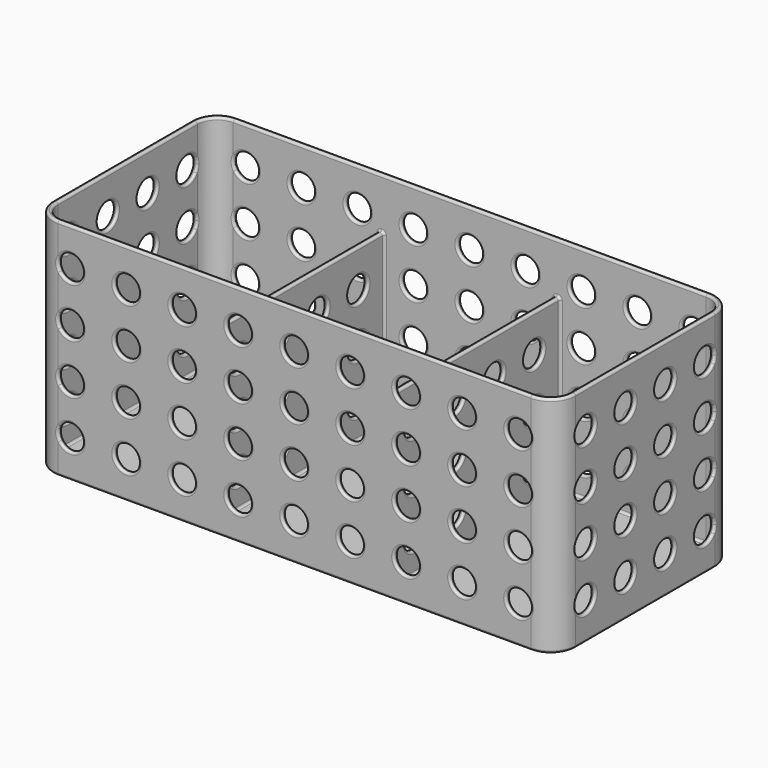
from build123d import *

# Parameters (mm, degrees)
PAD_DEPTH              = 90
THICKNESS_T            = -2
SKETCH001_W            = 2
SKETCH001_H            = 90
PAD001_DEPTH           = 70
SKETCH002_R            = 5
POCKET_DEPTH           = 45.001
POCKET_DEPTH_BACK      = 45.001
LINEARPATTERN_COUNT    = 9
LINEARPATTERN_PITCH    = 22.5
SKETCH003_R            = 5
POCKET001_DEPTH        = 105.001
POCKET001_DEPTH_BACK   = 105.001
LINEARPATTERN001_COUNT = 4
LINEARPATTERN001_PITCH = 20
FILLET_R               = 0.9


with BuildPart() as part:
    # Sketch → Pad (new body)
    with BuildSketch(Plane.XY):
        with BuildLine():
            ThreePointArc((-95, 45), (-102.071068, 42.071068), (-105, 35))
            Line((-105, -35), (-105, 35))
            ThreePointArc((-105, -35), (-102.071068, -42.071068), (-95, -45))
            Line((95, -45), (-95, -45))
            ThreePointArc((95, -45), (102.071068, -42.071068), (105, -35))
            Line((105, 35), (105, -35))
            ThreePointArc((105, 35), (102.071068, 42.071068), (95, 45))
            Line((-95, 45), (95, 45))
        make_face()
    extrude(amount=PAD_DEPTH)

    # Thickness
    thickness_openings = [part.faces().sort_by_distance(p)[0] for p in [
        (0, 0, 90),
    ]]
    offset(amount=THICKNESS_T, openings=thickness_openings)

    # Sketch001 → Pad001 (join)
    with BuildSketch(Plane.XY):
        with Locations((-35.333333, 0)):
            Rectangle(SKETCH001_W, SKETCH001_H)
        with Locations((35.333333, 0)):
            Rectangle(SKETCH001_W, SKETCH001_H)
    extrude(amount=PAD001_DEPTH)

    # Sketch002 → Pocket (cut, two sides)
    with BuildSketch(Plane.XZ) as pocket_sk:
        with Locations((-90, 75)):
            Circle(SKETCH002_R)
        with Locations((-90, 55)):
            Circle(SKETCH002_R)
        with Locations((-90, 35)):
            Circle(SKETCH002_R)
        with Locations((-90, 15)):
            Circle(SKETCH002_R)
    pocket = extrude(amount=-POCKET_DEPTH, mode=Mode.SUBTRACT) + extrude(pocket_sk.sketch, amount=POCKET_DEPTH_BACK, mode=Mode.SUBTRACT)

    # LinearPattern: Pocket ×9
    with Locations(*[(i * LINEARPATTERN_PITCH, 0, 0) for i in range(1, LINEARPATTERN_COUNT)]):
        add(pocket, mode=Mode.SUBTRACT)

    # Sketch003 → Pocket001 (cut, two sides)
    with BuildSketch(Plane.YZ) as pocket001_sk:
        with Locations((-30, 15)):
            Circle(SKETCH003_R)
        with Locations((-30, 35)):
            Circle(SKETCH003_R)
        with Locations((-30, 55)):
            Circle(SKETCH003_R)
        with Locations((-30, 75)):
            Circle(SKETCH003_R)
    pocket001 = extrude(amount=-POCKET001_DEPTH, mode=Mode.SUBTRACT) + extrude(pocket001_sk.sketch, amount=POCKET001_DEPTH_BACK, mode=Mode.SUBTRACT)

    # LinearPattern001: Pocket001 ×4
    with Locations(*[(0, i * LINEARPATTERN001_PITCH, 0) for i in range(1, LINEARPATTERN001_COUNT)]):
        add(pocket001, mode=Mode.SUBTRACT)

    # Fillet
    fillet_edges = [part.edges().sort_by_distance(p)[0] for p in [
        (0, -45, 0),
        (-95, -45, 7.5),
        (-95, -45, 25),
        (-95, -45, 45),
        (-95, -45, 65),
        (-95, -45, 82.5),
        (0, -45, 90),
        (95, -45, 82.5),
        (95, -45, 65),
        (95, -45, 45),
        (95, -45, 25),
        (95, -45, 7.5),
        (85, -45, 75),
        (62.5, -45, 75),
        (40, -45, 75),
        (17.5, -45, 75),
        (85, -45, 55),
        (62.5, -45, 55),
        (40, -45, 55),
        (17.5, -45, 55),
        (-5, -45, 75),
        (-27.5, -45, 75),
        (-50, -45, 75),
        (-72.5, -45, 75),
        (-90, -45, 70),
        (-90, -45, 80),
        (-5, -45, 55),
        (-27.5, -45, 55),
        (-50, -45, 55),
        (-72.5, -45, 55),
        (-90, -45, 50),
        (-90, -45, 60),
        (85, -45, 35),
        (62.5, -45, 35),
        (40, -45, 35),
        (17.5, -45, 35),
        (85, -45, 15),
        (62.5, -45, 15),
        (40, -45, 15),
        (17.5, -45, 15),
        (-5, -45, 35),
        (-27.5, -45, 35),
        (-50, -45, 35),
        (-72.5, -45, 35),
        (-90, -45, 30),
        (-90, -45, 40),
        (-5, -45, 15),
        (-27.5, -45, 15),
        (-50, -45, 15),
        (-72.5, -45, 15),
        (-90, -45, 10),
        (-90, -45, 20),
        (105, 0, 0),
        (105, -35, 7.5),
        (105, -35, 25),
        (105, -35, 45),
        (105, -35, 65),
        (105, -35, 82.5),
        (105, 0, 90),
        (105, 35, 82.5),
        (105, 35, 65),
        (105, 35, 45),
        (105, 35, 25),
        (105, 35, 7.5),
        (105, 25, 75),
        (105, 5, 75),
        (105, 25, 55),
        (105, 5, 55),
        (105, -15, 75),
        (105, -30, 70),
        (105, -30, 80),
        (105, -15, 55),
        (105, -30, 50),
        (105, -30, 60),
        (105, 25, 35),
        (105, 5, 35),
        (105, 25, 15),
        (105, 5, 15),
        (105, -15, 35),
        (105, -30, 30),
        (105, -30, 40),
        (105, -15, 15),
        (105, -30, 10),
        (105, -30, 20),
        (0, 45, 0),
        (95, 45, 7.5),
        (95, 45, 25),
        (95, 45, 45),
        (95, 45, 65),
        (95, 45, 82.5),
        (0, 45, 90),
        (-95, 45, 82.5),
        (-95, 45, 65),
        (-95, 45, 45),
        (-95, 45, 25),
        (-95, 45, 7.5),
        (-90, 45, 80),
        (-90, 45, 70),
        (-72.5, 45, 75),
        (-50, 45, 75),
        (-27.5, 45, 75),
        (-90, 45, 60),
        (-90, 45, 50),
        (-72.5, 45, 55),
        (-50, 45, 55),
        (-27.5, 45, 55),
        (-5, 45, 75),
        (17.5, 45, 75),
        (40, 45, 75),
        (62.5, 45, 75),
        (85, 45, 75),
        (-5, 45, 55),
        (17.5, 45, 55),
        (40, 45, 55),
        (62.5, 45, 55),
        (85, 45, 55),
        (-90, 45, 40),
        (-90, 45, 30),
        (-72.5, 45, 35),
        (-50, 45, 35),
        (-27.5, 45, 35),
        (-90, 45, 20),
        (-90, 45, 10),
        (-72.5, 45, 15),
        (-50, 45, 15),
        (-27.5, 45, 15),
        (-5, 45, 35),
        (17.5, 45, 35),
        (40, 45, 35),
        (62.5, 45, 35),
        (85, 45, 35),
        (-5, 45, 15),
        (17.5, 45, 15),
        (40, 45, 15),
        (62.5, 45, 15),
        (85, 45, 15),
        (-105, 0, 0),
        (-105, 35, 7.5),
        (-105, 35, 25),
        (-105, 35, 45),
        (-105, 35, 65),
        (-105, 35, 82.5),
        (-105, 0, 90),
        (-105, -35, 82.5),
        (-105, -35, 65),
        (-105, -35, 45),
        (-105, -35, 25),
        (-105, -35, 7.5),
        (-105, -30, 80),
        (-105, -30, 70),
        (-105, -15, 75),
        (-105, -30, 60),
        (-105, -30, 50),
        (-105, -15, 55),
        (-105, 5, 75),
        (-105, 25, 75),
        (-105, 5, 55),
        (-105, 25, 55),
        (-105, -30, 40),
        (-105, -30, 30),
        (-105, -15, 35),
        (-105, -30, 20),
        (-105, -30, 10),
        (-105, -15, 15),
        (-105, 5, 35),
        (-105, 25, 35),
        (-105, 5, 15),
        (-105, 25, 15),
        (-65.666667, 43, 2),
        (-36.333333, 43, 36),
        (-35.333333, 43, 70),
        (-34.333333, 43, 36),
        (0, 43, 2),
        (34.333333, 43, 36),
        (35.333333, 43, 70),
        (36.333333, 43, 36),
        (65.666667, 43, 2),
        (95, 43, 8.5),
        (95, 43, 25),
        (95, 43, 45),
        (95, 43, 65),
        (95, 43, 82.5),
        (0, 43, 90),
        (-95, 43, 82.5),
        (-95, 43, 65),
        (-95, 43, 45),
        (-95, 43, 25),
        (-95, 43, 8.5),
        (-90, 43, 80),
        (-90, 43, 70),
        (-72.5, 43, 75),
        (-50, 43, 75),
        (-27.5, 43, 75),
        (-90, 43, 60),
        (-90, 43, 50),
        (-72.5, 43, 55),
        (-50, 43, 55),
        (-27.5, 43, 55),
        (-5, 43, 75),
        (17.5, 43, 75),
        (40, 43, 75),
        (62.5, 43, 75),
        (85, 43, 75),
        (-5, 43, 55),
        (17.5, 43, 55),
        (40, 43, 55),
        (62.5, 43, 55),
        (85, 43, 55),
        (-90, 43, 40),
        (-90, 43, 30),
        (-72.5, 43, 35),
        (-50, 43, 35),
        (-27.5, 43, 35),
        (-90, 43, 20),
        (-90, 43, 10),
        (-72.5, 43, 15),
        (-50, 43, 15),
        (-27.5, 43, 15),
        (-5, 43, 35),
        (17.5, 43, 35),
        (40, 43, 35),
        (62.5, 43, 35),
        (85, 43, 35),
        (-5, 43, 15),
        (17.5, 43, 15),
        (40, 43, 15),
        (62.5, 43, 15),
        (85, 43, 15),
        (-103, 0, 2),
        (-103, 35, 8.5),
        (-103, 35, 25),
        (-103, 35, 45),
        (-103, 35, 65),
        (-103, 35, 82.5),
        (-103, 0, 90),
        (-103, -35, 82.5),
        (-103, -35, 65),
        (-103, -35, 45),
        (-103, -35, 25),
        (-103, -35, 8.5),
        (-103, -30, 80),
        (-103, -30, 70),
        (-103, -15, 75),
        (-103, -30, 60),
        (-103, -30, 50),
        (-103, -15, 55),
        (-103, 5, 75),
        (-103, 25, 75),
        (-103, 5, 55),
        (-103, 25, 55),
        (-103, -30, 40),
        (-103, -30, 30),
        (-103, -15, 35),
        (-103, -30, 20),
        (-103, -30, 10),
        (-103, -15, 15),
        (-103, 5, 35),
        (-103, 25, 35),
        (-103, 5, 15),
        (-103, 25, 15),
        (65.666667, -43, 2),
        (36.333333, -43, 36),
        (35.333333, -43, 70),
        (34.333333, -43, 36),
        (0, -43, 2),
        (-34.333333, -43, 36),
        (-35.333333, -43, 70),
        (-36.333333, -43, 36),
        (-65.666667, -43, 2),
        (-95, -43, 8.5),
        (-95, -43, 25),
        (-95, -43, 45),
        (-95, -43, 65),
        (-95, -43, 82.5),
        (0, -43, 90),
        (95, -43, 82.5),
        (95, -43, 65),
        (95, -43, 45),
        (95, -43, 25),
        (95, -43, 8.5),
        (85, -43, 75),
        (62.5, -43, 75),
        (40, -43, 75),
        (17.5, -43, 75),
        (85, -43, 55),
        (62.5, -43, 55),
        (40, -43, 55),
        (17.5, -43, 55),
        (-5, -43, 75),
        (-27.5, -43, 75),
        (-50, -43, 75),
        (-72.5, -43, 75),
        (-90, -43, 70),
        (-90, -43, 80),
        (-5, -43, 55),
        (-27.5, -43, 55),
        (-50, -43, 55),
        (-72.5, -43, 55),
        (-90, -43, 50),
        (-90, -43, 60),
        (85, -43, 35),
        (62.5, -43, 35),
        (40, -43, 35),
        (17.5, -43, 35),
        (85, -43, 15),
        (62.5, -43, 15),
        (40, -43, 15),
        (17.5, -43, 15),
        (-5, -43, 35),
        (-27.5, -43, 35),
        (-50, -43, 35),
        (-72.5, -43, 35),
        (-90, -43, 30),
        (-90, -43, 40),
        (-5, -43, 15),
        (-27.5, -43, 15),
        (-50, -43, 15),
        (-72.5, -43, 15),
        (-90, -43, 10),
        (-90, -43, 20),
        (103, 0, 2),
        (103, -35, 8.5),
        (103, -35, 25),
        (103, -35, 45),
        (103, -35, 65),
        (103, -35, 82.5),
        (103, 0, 90),
        (103, 35, 82.5),
        (103, 35, 65),
        (103, 35, 45),
        (103, 35, 25),
        (103, 35, 8.5),
        (103, 25, 75),
        (103, 5, 75),
        (103, 25, 55),
        (103, 5, 55),
        (103, -15, 75),
        (103, -30, 70),
        (103, -30, 80),
        (103, -15, 55),
        (103, -30, 50),
        (103, -30, 60),
        (103, 25, 35),
        (103, 5, 35),
        (103, 25, 15),
        (103, 5, 15),
        (103, -15, 35),
        (103, -30, 30),
        (103, -30, 40),
        (103, -15, 15),
        (103, -30, 10),
        (103, -30, 20),
        (34.333333, 0, 70),
        (34.333333, 0, 2),
        (34.333333, -35, 55),
        (34.333333, -15, 55),
        (34.333333, -35, 35),
        (34.333333, 5, 55),
        (34.333333, 25, 55),
        (34.333333, -15, 35),
        (34.333333, -35, 15),
        (34.333333, -15, 15),
        (34.333333, 5, 35),
        (34.333333, 25, 35),
        (34.333333, 5, 15),
        (34.333333, 25, 15),
        (36.333333, 0, 70),
        (36.333333, 0, 2),
        (36.333333, 25, 55),
        (36.333333, 5, 55),
        (36.333333, -15, 55),
        (36.333333, -35, 55),
        (36.333333, -35, 35),
        (36.333333, 25, 35),
        (36.333333, 5, 35),
        (36.333333, 25, 15),
        (36.333333, 5, 15),
        (36.333333, -15, 35),
        (36.333333, -15, 15),
        (36.333333, -35, 15),
        (-36.333333, 0, 70),
        (-36.333333, 0, 2),
        (-36.333333, -35, 55),
        (-36.333333, -15, 55),
        (-36.333333, -35, 35),
        (-36.333333, 5, 55),
        (-36.333333, 25, 55),
        (-36.333333, -15, 35),
        (-36.333333, -35, 15),
        (-36.333333, -15, 15),
        (-36.333333, 5, 35),
        (-36.333333, 25, 35),
        (-36.333333, 5, 15),
        (-36.333333, 25, 15),
        (-34.333333, 0, 70),
        (-34.333333, 0, 2),
        (-34.333333, 25, 55),
        (-34.333333, 5, 55),
        (-34.333333, -15, 55),
        (-34.333333, -35, 55),
        (-34.333333, -35, 35),
        (-34.333333, 25, 35),
        (-34.333333, 5, 35),
        (-34.333333, 25, 15),
        (-34.333333, 5, 15),
        (-34.333333, -15, 35),
        (-34.333333, -15, 15),
        (-34.333333, -35, 15),
    ]]
    fillet(fillet_edges, radius=FILLET_R)


solid = part.part
